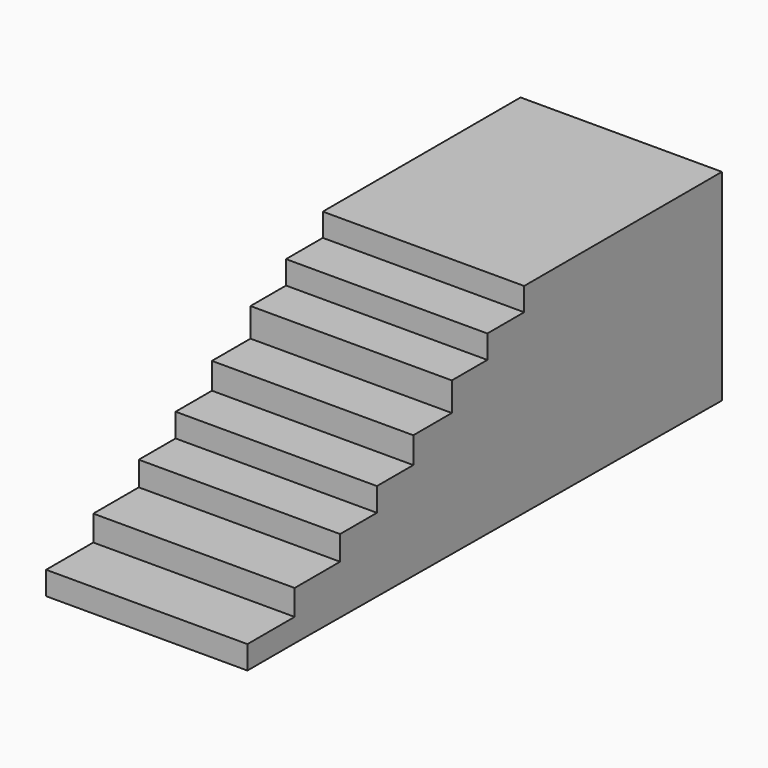
from build123d import *

# Parameters (mm, degrees)
F1_DEPTH = 1828.8


with BuildPart() as f1:
    # F0 (on Right) → F1 (new body)
    with BuildSketch(Plane.YZ):
        Polygon((824.828423, -908.336986), (824.828423, 920.463014), (-1003.971577, 920.463014), (-1420.401931, 920.463014), (-1420.401931, 710.494041), (-1838.299036, 710.494041), (-1838.299036, 499.087185), (-2241.446972, 499.087185), (-2241.446972, 238.516003), (-2679.009676, 238.516003), (-2679.009676, 0), (-3091.990471, 0), (-3091.990471, -213.796198), (-3509.887695, -213.796198), (-3509.887695, -435.035884), (-4026.11351, -435.035884), (-4026.11351, -666.108429), (-4562.005043, -666.108429), (-4562.005043, -877.515197), (-4026.11351, -877.515197), align=None)
    extrude(amount=F1_DEPTH)


solid = f1.part
